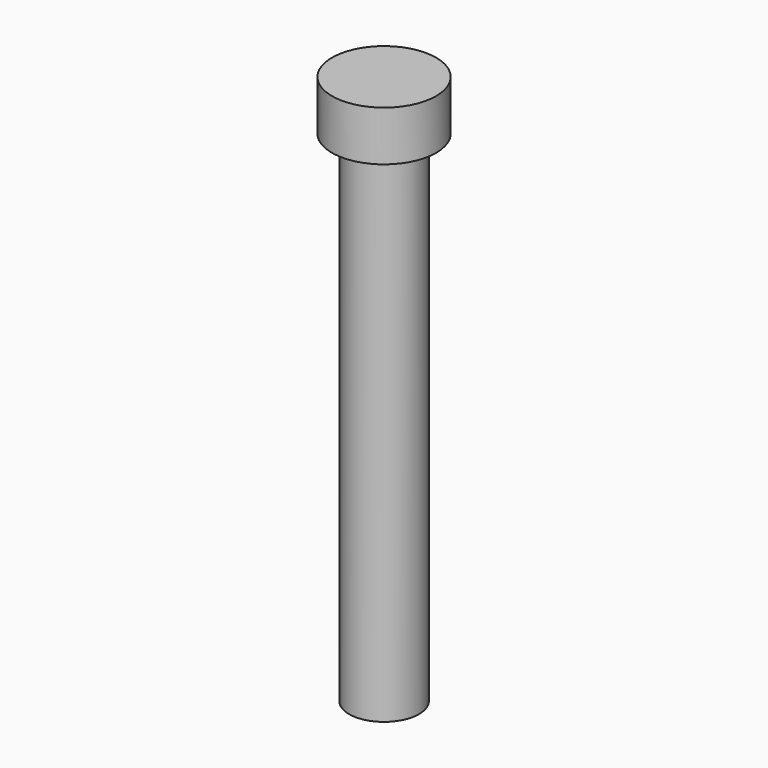
from build123d import *

# Parameters (mm, degrees)
F0_R     = 4.445
F1_DEPTH = 63.5
F0_R_2   = 6.6167
F2_DEPTH = 6.35


with BuildPart() as f1:
    # F0 (on Top) → F1 (new body)
    with BuildSketch(Plane.XY):
        Circle(F0_R)
    extrude(amount=-F1_DEPTH)

    # F0 (on Top) → F2 (join)
    with BuildSketch(Plane.XY):
        Circle(F0_R_2)
        Circle(F0_R, mode=Mode.SUBTRACT)
        Circle(F0_R)
    extrude(amount=F2_DEPTH)


solid = f1.part
